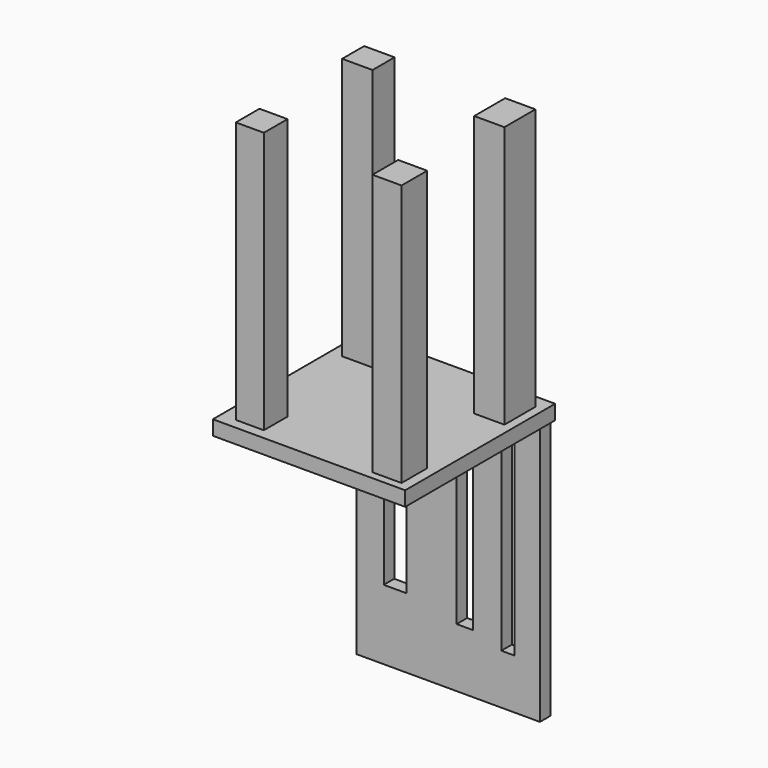
from build123d import *

# Parameters (mm, degrees)
F0_W     = 130.542636
F0_H     = 127.233949
F1_DEPTH = 9.906
F2_W     = 19.73008
F2_H     = 21.76354
F2_W_2   = 20.498451
F2_H_2   = 26.257996
F2_W_3   = 20.644247
F2_H_3   = 18.675257
F2_W_4   = 19.04821
F2_H_4   = 20.091395
F3_DEPTH = 187.706
F4_W     = 124.663566
F4_H     = 8.92711
F5_DEPTH = 177.8
F6_W     = 8.759178
F6_H     = 129.845535
F6_W_2   = 11.253112
F6_H_2   = 123.803681
F6_W_3   = 15.531029
F6_H_3   = 116.437322
F7_DEPTH = 25.4


with BuildPart() as f1:
    # F0 (on Top) → F1 (new body)
    with BuildSketch(Plane.XY):
        with Locations((2.255924, 3.91026)):
            Rectangle(F0_W, F0_H)
    extrude(amount=F1_DEPTH)

    # F2 (on face) → F3 (join)
    with BuildSketch(Plane.XY):
        with Locations((50.939338, -43.50264)):
            Rectangle(F2_W, F2_H)
        with Locations((51.323523, 45.077661)):
            Rectangle(F2_W_2, F2_H_2)
        with Locations((-44.336367, 48.86903)):
            Rectangle(F2_W_3, F2_H_3)
        with Locations((-43.538349, -42.666567)):
            Rectangle(F2_W_4, F2_H_4)
    extrude(amount=F3_DEPTH)

    # F4 (on face) → F5 (join)
    with BuildSketch(Plane.XY):
        with Locations((1.841141, 63.281318)):
            Rectangle(F4_W, F4_H)
    extrude(amount=-F5_DEPTH)

    # F6 (on face) → F7 (cut)
    with BuildSketch(Plane.XZ.offset(-58.817763)):
        with Locations((42.374756, -78.830328)):
            Rectangle(F6_W, F6_H)
        with Locations((13.268729, -75.809401)):
            Rectangle(F6_W_2, F6_H_2)
        with Locations((-34.073861, -72.126222)):
            Rectangle(F6_W_3, F6_H_3)
    extrude(amount=-F7_DEPTH, mode=Mode.SUBTRACT)


solid = f1.part
